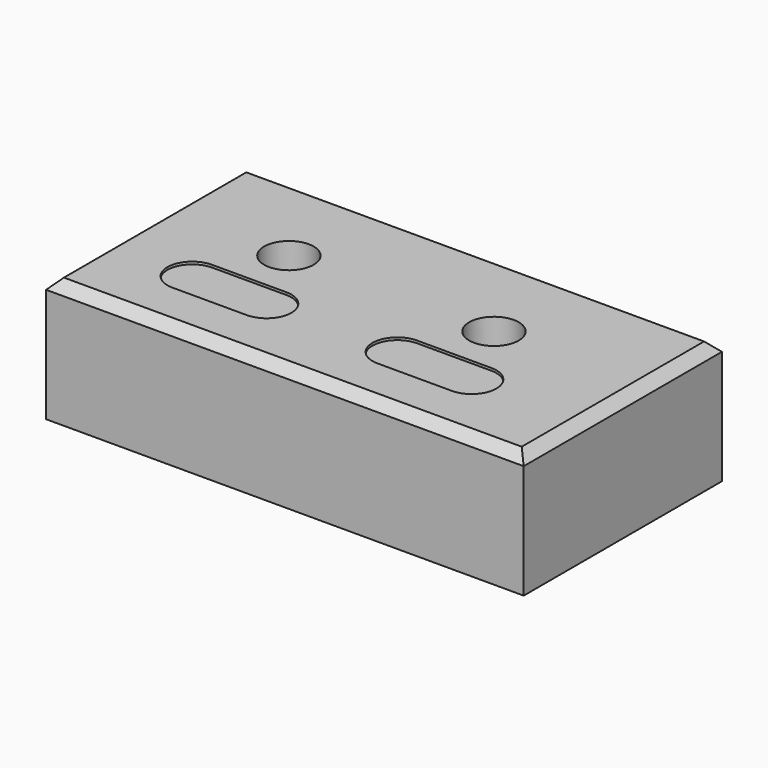
from build123d import *

# Parameters (mm, degrees)
F0_W     = 96.38
F0_H     = 50
F1_DEPTH = 25
F2_R     = 5
F3_DEPTH = 6.5
F4_R     = 1
F5_DEPTH = 22
F6_SIZE  = 2
F8_DEPTH = 0.5


with BuildPart() as f1:
    # F0 (on Top) → F1 (new body)
    with BuildSketch(Plane.XY):
        with Locations((48.19, 25)):
            Rectangle(F0_W, F0_H)
    extrude(amount=F1_DEPTH)

    # F2 (on face) → F3 (cut)
    with BuildSketch(Plane.XY.offset(25)):
        with Locations((25, 30)):
            Circle(F2_R)
        with Locations((66.38, 30)):
            Circle(F2_R)
    extrude(amount=-F3_DEPTH, mode=Mode.SUBTRACT)

    # F4 (on face) → F5 (cut)
    with BuildSketch(Plane.XY.offset(25)):
        with Locations((66.38, 30)):
            Circle(F4_R)
    extrude(amount=-F5_DEPTH, mode=Mode.SUBTRACT)

    # F6
    f6_edges = [f1.edges().sort_by_distance(p)[0] for p in [
        (48.19, 0, 25),
        (96.38, 25, 25),
        (0, 25, 25),
        (48.19, 50, 25),
    ]]
    chamfer(f6_edges, length=F6_SIZE)

    # F7 (on face) → F8 (cut)
    with BuildSketch(Plane.XY.offset(25)):
        with BuildLine():
            Line((32.5, 20), (17.5, 20))
            ThreePointArc((17.5, 20), (13.964466, 18.535534), (12.5, 15))
            ThreePointArc((12.5, 15), (13.964466, 11.464466), (17.5, 10))
            Line((17.5, 10), (32.5, 10))
            ThreePointArc((32.5, 10), (36.035534, 11.464466), (37.5, 15))
            ThreePointArc((37.5, 15), (36.035534, 18.535534), (32.5, 20))
        make_face()
        with BuildLine():
            Line((73.88, 20), (58.88, 20))
            ThreePointArc((58.88, 20), (55.344466, 18.535534), (53.88, 15))
            ThreePointArc((53.88, 15), (55.344466, 11.464466), (58.88, 10))
            Line((58.88, 10), (73.88, 10))
            ThreePointArc((73.88, 10), (77.415534, 11.464466), (78.88, 15))
            ThreePointArc((78.88, 15), (77.415534, 18.535534), (73.88, 20))
        make_face()
    extrude(amount=-F8_DEPTH, mode=Mode.SUBTRACT)


solid = f1.part
